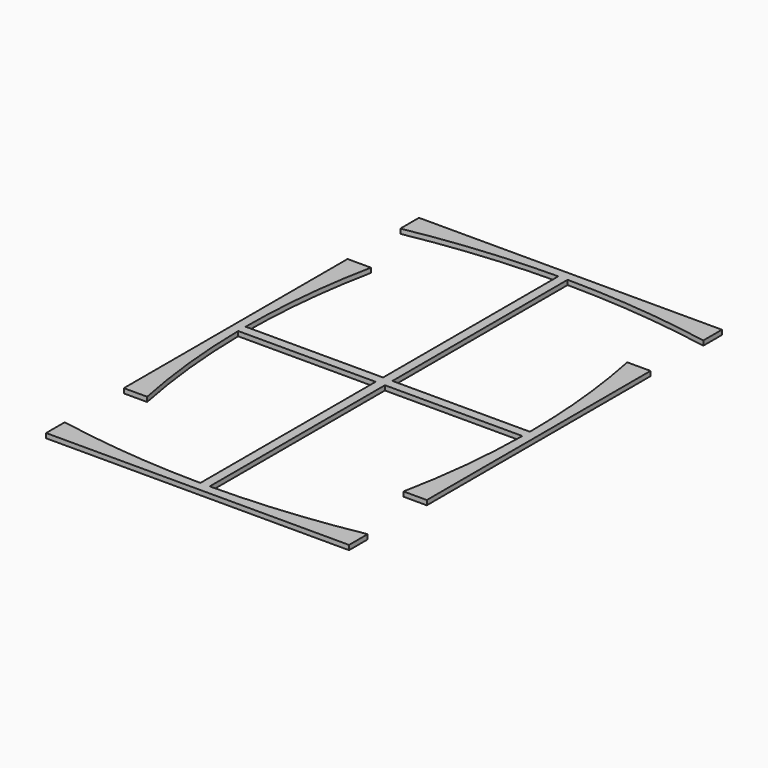
from build123d import *

# Parameters (mm, degrees)
F1_DEPTH = 0.254


with BuildPart() as f1:
    # F0 (on Top) → F1 (new body)
    with BuildSketch(Plane.XY):
        with BuildLine():
            Line((8.255, 12.7), (-8.255, 12.7))
            Line((-8.255, 12.7), (-8.255, 11.43))
            ThreePointArc((-8.255, 11.43), (-4.271494, 11.989244), (-0.254, 12.191285))
            Line((-0.254, 12.191285), (-0.254, 0.254))
            Line((-0.254, 0.254), (-7.746982, 0.254))
            ThreePointArc((-7.746982, 0.254), (-7.554177, 4.06437), (-6.985, 7.83692))
            Line((-6.985, 7.83692), (-8.255, 7.83692))
            Line((-8.255, 7.83692), (-8.255, -7.40308))
            Line((-8.255, -7.40308), (-6.985, -7.40308))
            ThreePointArc((-6.985, -7.40308), (-7.53188, -3.846307), (-7.744118, -0.254))
            Line((-7.744118, -0.254), (-0.254, -0.254))
            Line((-0.254, -0.254), (-0.254, -12.191285))
            ThreePointArc((-0.254, -12.191285), (-4.271494, -11.989244), (-8.255, -11.43))
            Line((-8.255, -11.43), (-8.255, -12.7))
            Line((-8.255, -12.7), (8.255, -12.7))
            Line((8.255, -12.7), (8.255, -11.43))
            ThreePointArc((8.255, -11.43), (4.271494, -11.989244), (0.254, -12.191285))
            Line((0.254, -12.191285), (0.254, -0.254))
            Line((0.254, -0.254), (7.744118, -0.254))
            ThreePointArc((7.744118, -0.254), (7.53188, -3.846307), (6.985, -7.40308))
            Line((6.985, -7.40308), (8.255, -7.40308))
            Line((8.255, -7.40308), (8.255, 7.83692))
            Line((8.255, 7.83692), (6.985, 7.83692))
            ThreePointArc((6.985, 7.83692), (7.554177, 4.06437), (7.746982, 0.254))
            Line((7.746982, 0.254), (0.254, 0.254))
            Line((0.254, 0.254), (0.254, 12.191285))
            ThreePointArc((0.254, 12.191285), (4.271494, 11.989244), (8.255, 11.43))
            Line((8.255, 11.43), (8.255, 12.7))
        make_face()
    extrude(amount=F1_DEPTH)


solid = f1.part
